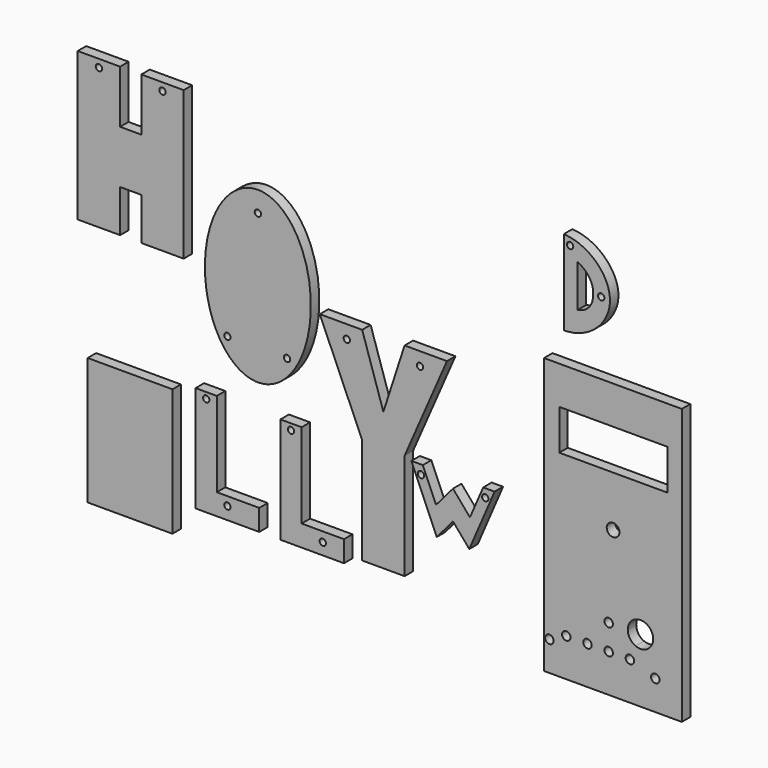
from build123d import *

# Parameters (mm, degrees)
F0_R     = 1.5
F1_DEPTH = 5
F2_DEPTH = 5
F0_W     = 40
F0_H     = 60
F3_DEPTH = 5
F4_DEPTH = 5
F5_DEPTH = 5
F6_DEPTH = 5
F7_DEPTH = 5
F0_W_2   = 65
F0_H_2   = 130
F0_R_2   = 2
F0_R_3   = 3
F0_W_3   = 51.13
F0_H_3   = 19.04
F8_DEPTH = 5
F9_DEPTH = 5


with BuildPart() as f1:
    # F0 (on Front) → F1 (new body)
    with BuildSketch(Plane.XZ):
        Polygon((20, 190), (10, 190), (10, 120), (30, 120), (30, 140), (40, 140), (40, 120), (60, 120), (60, 190), (40, 190), (40, 165), (30, 165), (30, 190), align=None)
        with BuildLine():
            ThreePointArc((21.5, 186.3522231579), (18.9393398282, 185.2915629861), (20, 187.8522231579))
            ThreePointArc((20, 187.8522231579), (21.0606601718, 187.4128833297), (21.5, 186.3522231579))
        make_face(mode=Mode.SUBTRACT)
        with Locations((50, 186.3522231579)):
            Circle(F0_R, mode=Mode.SUBTRACT)
    extrude(amount=F1_DEPTH)


with BuildPart() as f2:
    # F0 (on Front) → F2 (new body)
    with BuildSketch(Plane.XZ):
        with BuildLine():
            add(Edge.make_bspline(
                [(95, 160), (51.6987298108, 160), (73.3493649054, 100), (95, 40), (116.6506350946, 100), (138.3012701892, 160), (95, 160)],
                knots=[0, 0, 0, 2.0943951024, 2.0943951024, 4.1887902048, 4.1887902048, 6.2831853072, 6.2831853072, 6.2831853072], degree=2, weights=[1, 0.5, 1, 0.5, 1, 0.5, 1]))
        make_face()
        with Locations((80.629259944, 94.4216623902)):
            Circle(F0_R, mode=Mode.SUBTRACT)
        with Locations((108.7436466813, 94.4216623902)):
            Circle(F0_R, mode=Mode.SUBTRACT)
        with Locations((95, 150.3166407347)):
            Circle(F0_R, mode=Mode.SUBTRACT)
    extrude(amount=F2_DEPTH)


with BuildPart() as f3:
    # F0 (on Front) → F3 (new body)
    with BuildSketch(Plane.XZ):
        with Locations((34.6896094084, 34.0180804208)):
            Rectangle(F0_W, F0_H)
    extrude(amount=F3_DEPTH)


with BuildPart() as f4:
    # F0 (on Front) → F4 (new body)
    with BuildSketch(Plane.XZ):
        Polygon((75.629259944, 68.0837977678), (65.629259944, 68.0837977678), (65.629259944, 18.0837977678), (95.629259944, 18.0837977678), (95.629259944, 28.0837977678), (75.629259944, 28.0837977678), align=None)
        with Locations((80.629259944, 23.9756908268)):
            Circle(F0_R, mode=Mode.SUBTRACT)
        with Locations((70.629259944, 65.183326602)):
            Circle(F0_R, mode=Mode.SUBTRACT)
    extrude(amount=F4_DEPTH)


with BuildPart() as f5:
    # F0 (on Front) → F5 (new body)
    with BuildSketch(Plane.XZ):
        Polygon((105.629259944, 68.0837977678), (105.629259944, 26.1917153746), (105.629259944, 18.0837977678), (135.629259944, 18.0837977678), (135.629259944, 28.0837977678), (115.629259944, 28.0837977678), (115.629259944, 68.0837977678), align=None)
        with Locations((125.629259944, 23.5822517425)):
            Circle(F0_R, mode=Mode.SUBTRACT)
        with Locations((110.629259944, 65.183326602)):
            Circle(F0_R, mode=Mode.SUBTRACT)
    extrude(amount=F5_DEPTH)


with BuildPart() as f6:
    # F0 (on Front) → F6 (new body)
    with BuildSketch(Plane.XZ):
        Polygon((144.201869312, 72.0135718386), (144.201869312, 22.0135718386), (154.201869312, 22.0135718386), (164.201869312, 22.0135718386), (164.201869312, 72.0135718386), (184.201869312, 117.8393287882), (164.201869312, 117.8393287882), (154.201869312, 87.0135718386), (144.201869312, 117.8393287882), (124.201869312, 117.8393287882), align=None)
        with Locations((136.950640825, 111.541102025)):
            Circle(F0_R, mode=Mode.SUBTRACT)
        with Locations((171.453097799, 111.541102025)):
            Circle(F0_R, mode=Mode.SUBTRACT)
    extrude(amount=F6_DEPTH)


with BuildPart() as f7:
    # F0 (on Front) → F7 (new body)
    with BuildSketch(Plane.XZ):
        Polygon((172.8103414067, 70.945776999), (167.4227118492, 70.945776999), (179.375231266, 43.2027690113), (187.0511621237, 52.1945729852), (194.7270929813, 43.2027690113), (206.6796123981, 70.945776999), (201.2919828406, 70.945776999), (195.0498682227, 56.4571968372), (187.0511621237, 65.8271089196), (179.0524560247, 56.4571968372), align=None)
        with Locations((171.9393488823, 66.7148219512)):
            Circle(F0_R, mode=Mode.SUBTRACT)
        with Locations((202.2590336395, 66.9892636765)):
            Circle(F0_R, mode=Mode.SUBTRACT)
    extrude(amount=F7_DEPTH)


with BuildPart() as f8:
    # F0 (on Front) → F8 (new body)
    with BuildSketch(Plane.XZ):
        with Locations((262.5, 69.0180804208)):
            Rectangle(F0_W_2, F0_H_2)
        with BuildLine():
            ThreePointArc((234.5, 18.0180804208), (231.0857864376, 16.6038668584), (232.5, 20.0180804208))
            ThreePointArc((232.5, 20.0180804208), (233.9142135624, 19.4322939832), (234.5, 18.0180804208))
        make_face(mode=Mode.SUBTRACT)
        with BuildLine():
            ThreePointArc((242.5, 22.0180804208), (240.5, 20.0180804208), (238.5, 22.0180804208))
            ThreePointArc((238.5, 22.0180804208), (240.5, 24.0180804208), (242.5, 22.0180804208))
        make_face(mode=Mode.SUBTRACT)
        with BuildLine():
            ThreePointArc((252.5, 22.0180804208), (250.5, 20.0180804208), (248.5, 22.0180804208))
            ThreePointArc((248.5, 22.0180804208), (250.5, 24.0180804208), (252.5, 22.0180804208))
        make_face(mode=Mode.SUBTRACT)
        with BuildLine():
            ThreePointArc((262.5, 22.0180804208), (260.5, 20.0180804208), (258.5, 22.0180804208))
            ThreePointArc((258.5, 22.0180804208), (260.5, 24.0180804208), (262.5, 22.0180804208))
        make_face(mode=Mode.SUBTRACT)
        with BuildLine():
            ThreePointArc((272.5, 22.0180804208), (270.5, 20.0180804208), (268.5, 22.0180804208))
            ThreePointArc((268.5, 22.0180804208), (269.3905996075, 23.6821810095), (271.2692307692, 23.8642342669))
            ThreePointArc((271.2692307692, 23.8642342669), (272.1641005887, 23.1274808132), (272.5, 22.0180804208))
        make_face(mode=Mode.SUBTRACT)
        with BuildLine():
            ThreePointArc((284.5, 18.0180804208), (281.0857864376, 16.6038668584), (282.5, 20.0180804208))
            ThreePointArc((282.5, 20.0180804208), (283.9142135624, 19.4322939832), (284.5, 18.0180804208))
        make_face(mode=Mode.SUBTRACT)
        with Locations((260.5, 34.0180804208)):
            Circle(F0_R_2, mode=Mode.SUBTRACT)
        with BuildLine():
            ThreePointArc((281.5, 34.0180804208), (278.8282011774, 29.0257786548), (273.1923076923, 28.4796188823))
            ThreePointArc((273.1923076923, 28.4796188823), (270.507698234, 30.6898792434), (269.5, 34.0180804208))
            ThreePointArc((269.5, 34.0180804208), (275.5, 40.0180804208), (281.5, 34.0180804208))
        make_face(mode=Mode.SUBTRACT)
        with Locations((262.5837569305, 73.2022146539)):
            Circle(F0_R_3, mode=Mode.SUBTRACT)
        with Locations((262.7490977669, 106.5618263888)):
            Rectangle(F0_W_3, F0_H_3, mode=Mode.SUBTRACT)
    extrude(amount=F8_DEPTH)


with BuildPart() as f9:
    # F0 (on Front) → F9 (new body)
    with BuildSketch(Plane.XZ):
        with BuildLine():
            add(Edge.make_bspline(
                [(239.3222600222, 148.5272496939), (252.111852169, 148.7185060978), (270.5702832483, 168.5784769645), (251.2113749981, 187.8887265921), (239.3222600222, 188.5272496939)],
                knots=[0, 0, 0, 0, 0.4993653529, 1, 1, 1, 1], degree=3))
            Line((239.3222600222, 188.5272496939), (239.3222600222, 148.5272496939))
        make_face()
        with BuildLine():
            Line((245.8420693874, 159.1523438692), (245.8420693874, 179.1523438692))
            add(Edge.make_bspline(
                [(245.8420693874, 159.1523438692), (251.4128088951, 160.1354181767), (255.0979846667, 168.6778720508), (251.2489855289, 176.1922836304), (245.8420693874, 179.1523438692)],
                knots=[0, 0, 0, 0, 0.4840100966, 1, 1, 1, 1], degree=3))
        make_face(mode=Mode.SUBTRACT)
        with Locations((256.9707632065, 168.187096715)):
            Circle(F0_R, mode=Mode.SUBTRACT)
        with Locations((242.295295, 184.7383528948)):
            Circle(F0_R, mode=Mode.SUBTRACT)
    extrude(amount=F9_DEPTH)


solid = Compound([f1.part, f2.part, f3.part, f4.part, f5.part, f6.part, f7.part, f8.part, f9.part])
